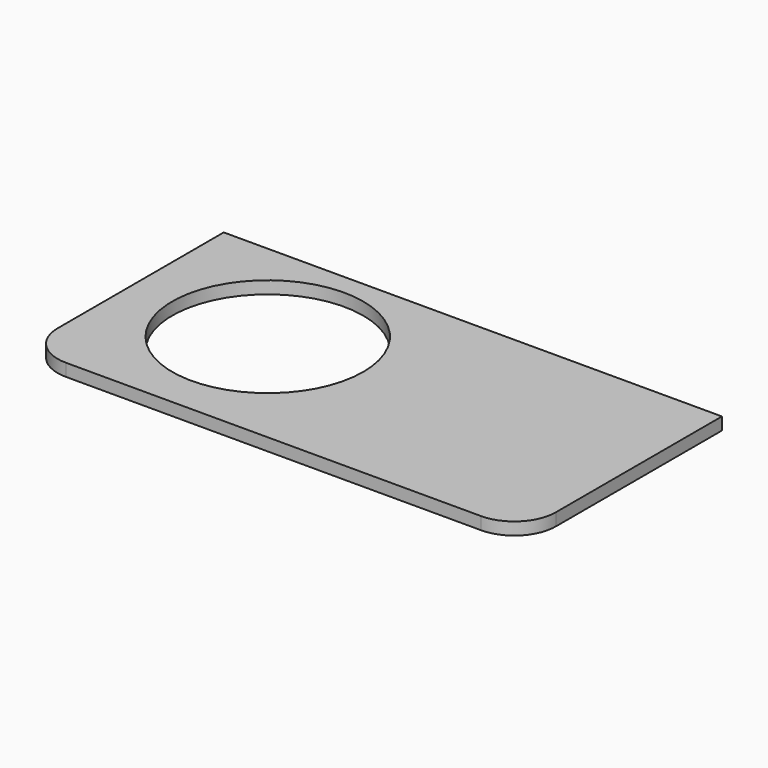
from build123d import *

# Parameters (mm, degrees)
F0_R     = 292.1
F1_DEPTH = 38.1


with BuildPart() as f1:
    # F0 (on Top) → F1 (new body)
    with BuildSketch(Plane.XY):
        with BuildLine():
            Line((762, 0), (-762, 0))
            Line((-762, 0), (-762, -635))
            ThreePointArc((-762, -635), (-724.802561, -724.802561), (-635, -762))
            Line((-635, -762), (635, -762))
            ThreePointArc((635, -762), (724.802561, -724.802561), (762, -635))
            Line((762, -635), (762, 0))
        make_face()
        with Locations((-342.9, -355.6)):
            Circle(F0_R, mode=Mode.SUBTRACT)
    extrude(amount=-F1_DEPTH)


solid = f1.part
